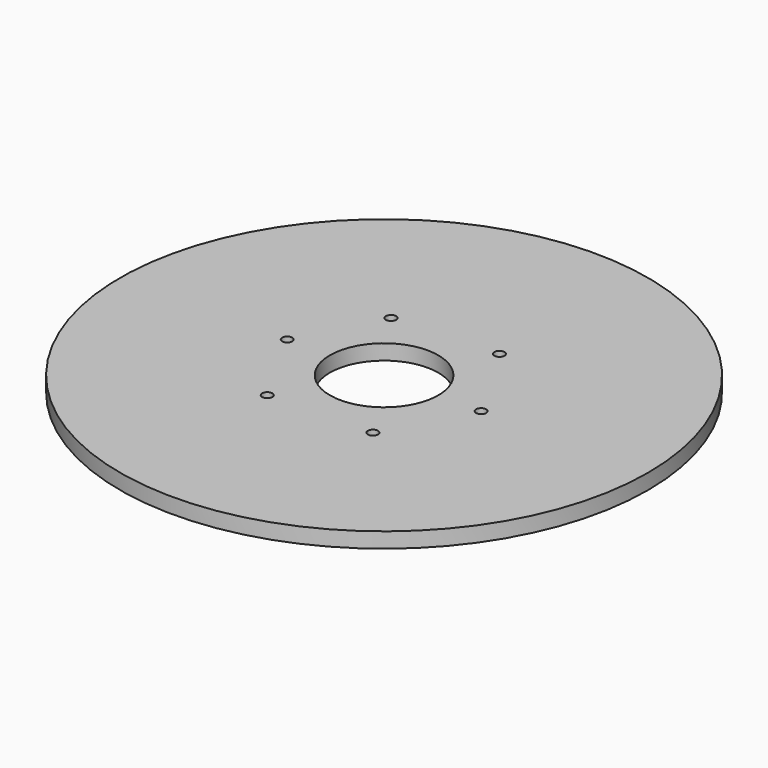
from build123d import *

# Parameters (mm, degrees)
F0_R     = 207.035433
F1_DEPTH = 12
F3_D     = 85
F6_D     = 8


with BuildPart() as f1:
    # F0 (on Top) → F1 (new body)
    with BuildSketch(Plane.XY):
        Circle(F0_R)
    extrude(amount=F1_DEPTH)

    # F3 (through all)
    with Locations(Plane(origin=(0, 0, 0), x_dir=(1, 0, 0), z_dir=(0, 0, -1))):
        with Locations((0, 0)):
            Hole(F3_D / 2)

    # F6 (through all)
    with Locations(Plane(origin=(0, 0, 0), x_dir=(1, 0, 0), z_dir=(0, 0, -1))):
        with Locations((-75.952627, 0), (-39.412599, 65.299459), (42.192809, 63.676074), (76.147959, 0), (37.442353, -66.324979), (-44.154473, -61.992928)):
            Hole(F6_D / 2)


solid = f1.part
